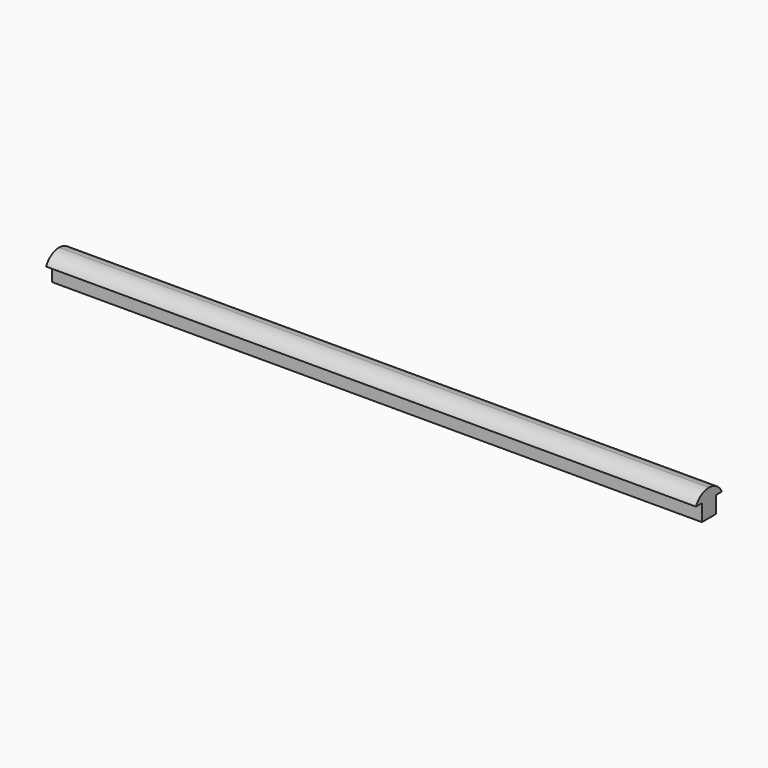
from build123d import *

# Parameters (mm, degrees)
F1_DEPTH = 350


with BuildPart() as f1:
    # F0 (on Right) → F1 (new body, symmetric)
    with BuildSketch(Plane.YZ):
        Polygon((9.5, -9), (9.5, 9), (0, 9), (-9.5, 9), (-9.5, -9), (0, -9), align=None)
        with BuildLine():
            Line((0, 9), (9.5, 9))
            Line((9.5, 9), (17.5, 9))
            ThreePointArc((17.5, 9), (10.335013, 17.021612), (0, 20))
            Line((0, 20), (0, 9))
        make_face()
        with BuildLine():
            Line((-9.5, 9), (0, 9))
            Line((0, 9), (0, 20))
            ThreePointArc((0, 20), (-10.335013, 17.021612), (-17.5, 9))
            Line((-17.5, 9), (-9.5, 9))
        make_face()
    extrude(amount=F1_DEPTH, both=True)


solid = f1.part
